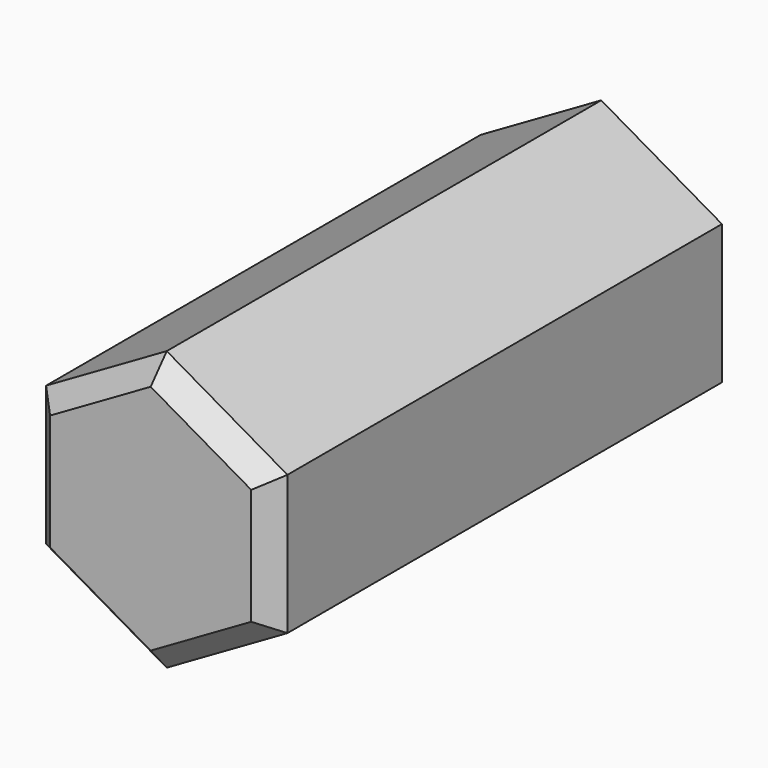
from build123d import *

# Parameters (mm, degrees)
F1_DEPTH = 14
F2_SIZE  = 0.5


with BuildPart() as f1:
    # F0 (on Front) → F1 (new body)
    with BuildSketch(Plane.XZ):
        Polygon((3, -1.732051), (3, 1.732051), (0, 3.464102), (-3, 1.732051), (-3, -1.732051), (0, -3.464102), align=None)
    extrude(amount=F1_DEPTH)

    # F2
    f2_edges = [f1.edges().sort_by_distance(p)[0] for p in [
        (-1.5, -14, 2.598076),
        (-3, -14, 0),
        (-1.5, -14, -2.598076),
        (1.5, -14, -2.598076),
        (3, -14, 0),
        (1.5, -14, 2.598076),
    ]]
    chamfer(f2_edges, length=F2_SIZE)


solid = f1.part
